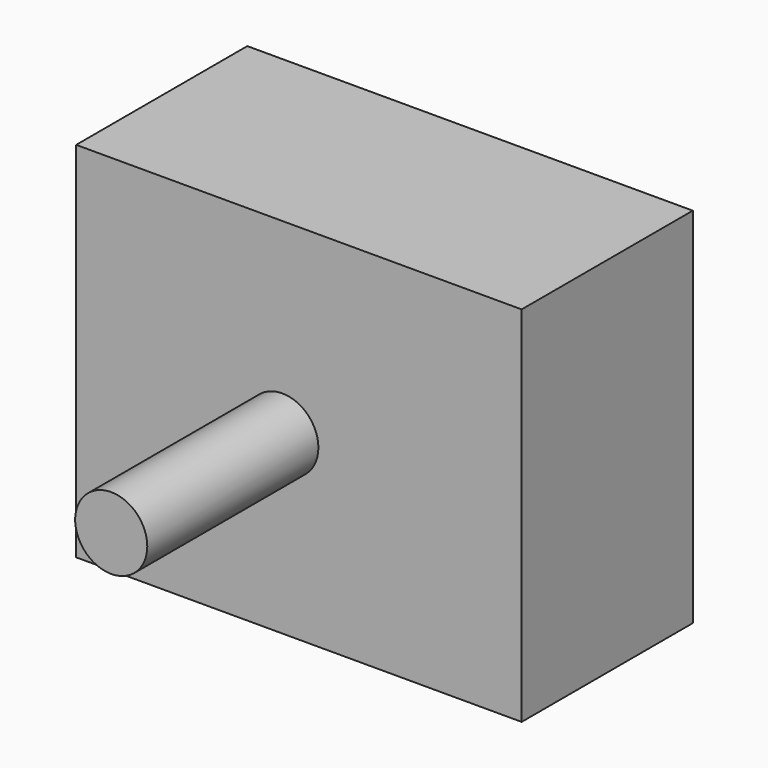
from build123d import *

# Parameters (mm, degrees)
F0_W     = 52.0707964897
F0_H     = 42.4502529204
F1_DEPTH = 25
F3_R     = 4.2138559649
F4_DEPTH = 25


with BuildPart() as f1:
    # F0 (on Front) → F1 (new body)
    with BuildSketch(Plane.XZ):
        with Locations((-86.6177603602, 21.2251264602)):
            Rectangle(F0_W, F0_H)
    extrude(amount=F1_DEPTH)


with BuildPart() as f4:
    # F3 (on offset) → F4 (new body, through all)
    with BuildSketch(Plane.XZ.offset(50)):
        with Locations((-88.5565727949, 20.5024555326)):
            Circle(F3_R)
    extrude(amount=-F4_DEPTH)


solid = Compound([f1.part, f4.part])
